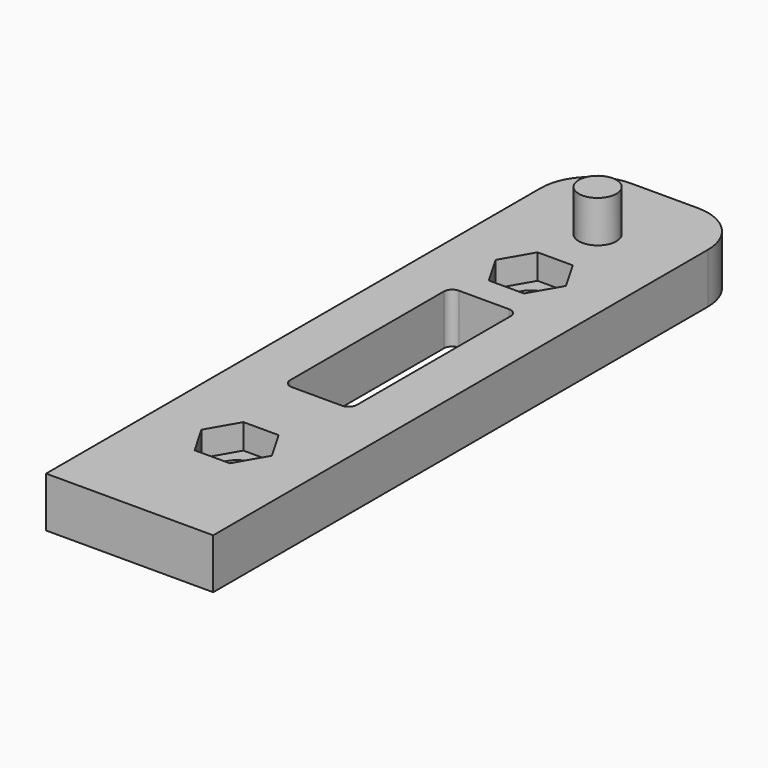
from build123d import *

# Parameters (mm, degrees)
SKETCH_W        = 20
SKETCH_H        = 80
PAD_DEPTH       = 6
SKETCH001_R     = 2.25
PAD001_DEPTH    = 5
FILLET_R        = 6
SKETCH002_R     = 2.25
POCKET_DEPTH    = 8
POCKET001_DEPTH = 3
SKETCH004_W     = 8
SKETCH004_H     = 25
POCKET002_DEPTH = 7
FILLET001_R     = 1


with BuildPart() as part:
    # Sketch → Pad (new body)
    with BuildSketch(Plane.XY):
        with Locations((0, 40)):
            Rectangle(SKETCH_W, SKETCH_H)
    extrude(amount=PAD_DEPTH)

    # Sketch001 (on Face6 of Pad) → Pad001 (join)
    with BuildSketch(Plane.XY.offset(6)):
        with Locations((0, 70)):
            Circle(SKETCH001_R)
    extrude(amount=PAD001_DEPTH)

    # Fillet
    fillet_edges = [part.edges().sort_by_distance(p)[0] for p in [
        (-10, 80, 3),
        (10, 80, 3),
    ]]
    fillet(fillet_edges, radius=FILLET_R)

    # Sketch002 (on Face5 of Fillet) → Pocket (cut)
    with BuildSketch(Plane.XY.offset(6)):
        with Locations((0, 16)):
            Circle(SKETCH002_R)
        with Locations((0, 60)):
            Circle(SKETCH002_R)
    extrude(amount=-POCKET_DEPTH, mode=Mode.SUBTRACT)

    # Sketch003 (on Face5 of Pocket) → Pocket001 (cut)
    with BuildSketch(Plane.XY.offset(6)):
        Polygon((2.107328, 19.65), (-2.107328, 19.65), (-4.214657, 16), (-2.107328, 12.35), (2.107328, 12.35), (4.214657, 16), align=None)
        Polygon((2.107328, 56.35), (4.214657, 60), (2.107328, 63.65), (-2.107328, 63.65), (-4.214657, 60), (-2.107328, 56.35), align=None)
    extrude(amount=-POCKET001_DEPTH, mode=Mode.SUBTRACT)

    # Sketch004 (on Face5 of Pocket001) → Pocket002 (cut)
    with BuildSketch(Plane.XY.offset(6)):
        with Locations((0, 40.5)):
            Rectangle(SKETCH004_W, SKETCH004_H)
    extrude(amount=-POCKET002_DEPTH, mode=Mode.SUBTRACT)

    # Fillet001
    fillet001_edges = [part.edges().sort_by_distance(p)[0] for p in [
        (4, 53, 3),
        (-4, 53, 3),
        (-4, 28, 3),
        (4, 28, 3),
    ]]
    fillet(fillet001_edges, radius=FILLET001_R)


solid = part.part
